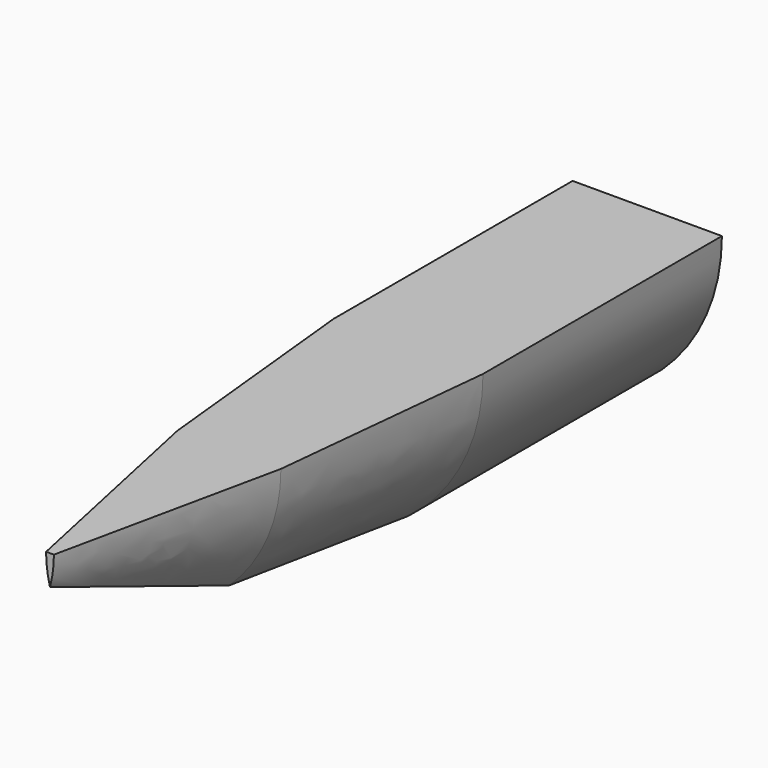
from build123d import *


with BuildPart() as part:
    # Sketch → AdditiveLoft section 0
    with BuildSketch(Plane.XZ):
        with BuildLine():
            ThreePointArc((-50, 100), (-36.803399, 44.098301), (0, 0))
            ThreePointArc((0, 0), (36.803399, 44.098301), (50, 100))
            Line((-50, 100), (50, 100))
        make_face()
    # Sketch003 (on DatumPlane) → AdditiveLoft section 1
    with BuildSketch(Plane.XZ.offset(200)):
        with BuildLine():
            Line((-50, 100), (50, 100))
            ThreePointArc((0, 0), (36.803399, 44.098301), (50, 100))
            ThreePointArc((-50, 100), (-36.803399, 44.098301), (0, 0))
        make_face()
    # Sketch001 (on DatumPlane) → AdditiveLoft section 2
    with BuildSketch(Plane.XZ.offset(350)):
        with BuildLine():
            Line((-34.658561, 100), (34.658561, 100))
            ThreePointArc((0, 20), (25.621549, 56.407524), (34.658561, 100))
            ThreePointArc((-34.658561, 100), (-25.621549, 56.407524), (0, 20))
        make_face()
    # Sketch002 (on DatumPlane) → AdditiveLoft section 3
    with BuildSketch(Plane.XZ.offset(500)):
        with BuildLine():
            Line((-2.620873, 100), (2.620873, 100))
            ThreePointArc((0, 80), (1.962866, 89.914503), (2.620873, 100))
            ThreePointArc((-2.620873, 100), (-1.962866, 89.914503), (0, 80))
        make_face()
    loft(ruled=True)


solid = part.part
